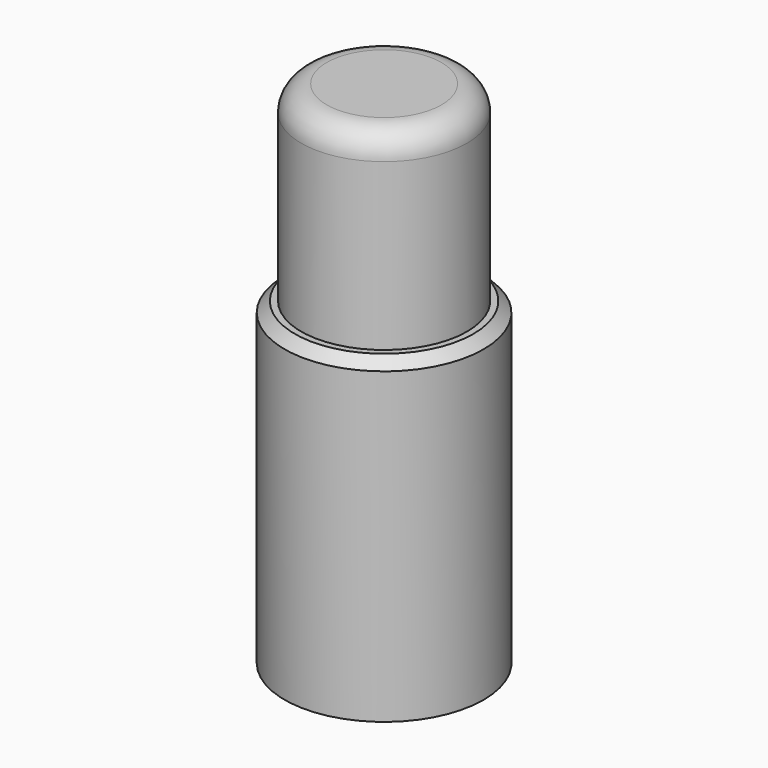
from build123d import *

# Parameters (mm, degrees)
SKETCH_R     = 3.9
PAD_DEPTH    = 12.5
SKETCH001_R  = 3.25
PAD001_DEPTH = 7.5
FILLET_R     = 1
CHAMFER_SIZE = 0.4


with BuildPart() as part:
    # Sketch → Pad (new body)
    with BuildSketch(Plane.XY):
        Circle(SKETCH_R)
    extrude(amount=PAD_DEPTH)

    # Sketch001 (on Face3 of Pad) → Pad001 (join)
    with BuildSketch(Plane.XY.offset(12.5)):
        Circle(SKETCH001_R)
    extrude(amount=PAD001_DEPTH)

    # Fillet
    fillet_edges = [part.edges().sort_by_distance(p)[0] for p in [
        (-3.25, 0, 20),
    ]]
    fillet(fillet_edges, radius=FILLET_R)

    # Chamfer
    chamfer_edges = [part.edges().sort_by_distance(p)[0] for p in [
        (-3.9, 0, 12.5),
    ]]
    chamfer(chamfer_edges, length=CHAMFER_SIZE)


solid = part.part
